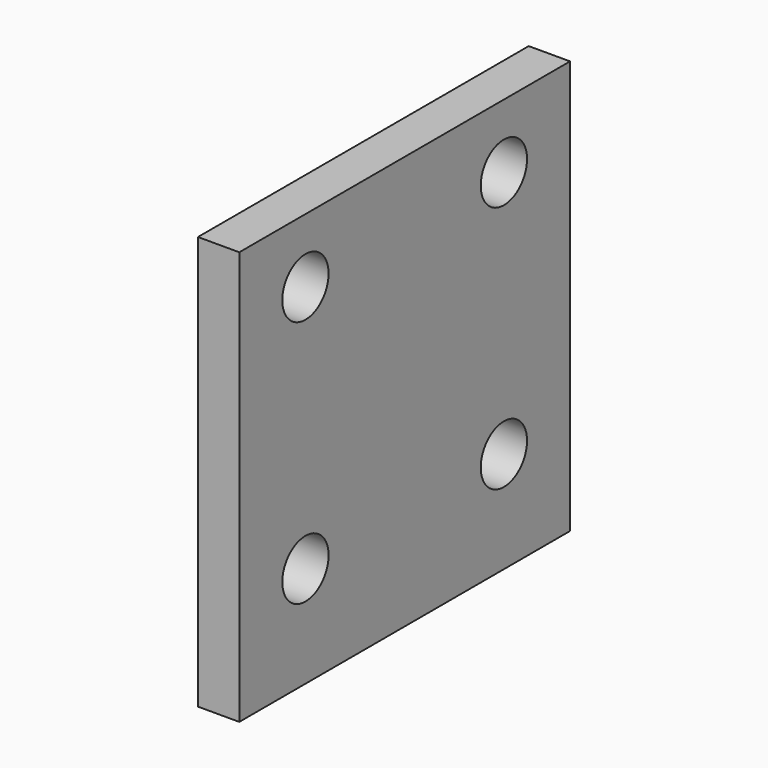
from build123d import *

# Parameters (mm, degrees)
F0_W     = 100
F0_H     = 100
F0_R     = 7
F1_DEPTH = 10


with BuildPart() as f1:
    # F0 (on Right) → F1 (new body)
    with BuildSketch(Plane.YZ):
        Rectangle(F0_W, F0_H)
        with Locations((-30, -25.5)):
            Circle(F0_R, mode=Mode.SUBTRACT)
        with Locations((30, -25.5)):
            Circle(F0_R, mode=Mode.SUBTRACT)
        with Locations((-30, 34.5)):
            Circle(F0_R, mode=Mode.SUBTRACT)
        with Locations((30, 34.5)):
            Circle(F0_R, mode=Mode.SUBTRACT)
    extrude(amount=F1_DEPTH)


solid = f1.part
